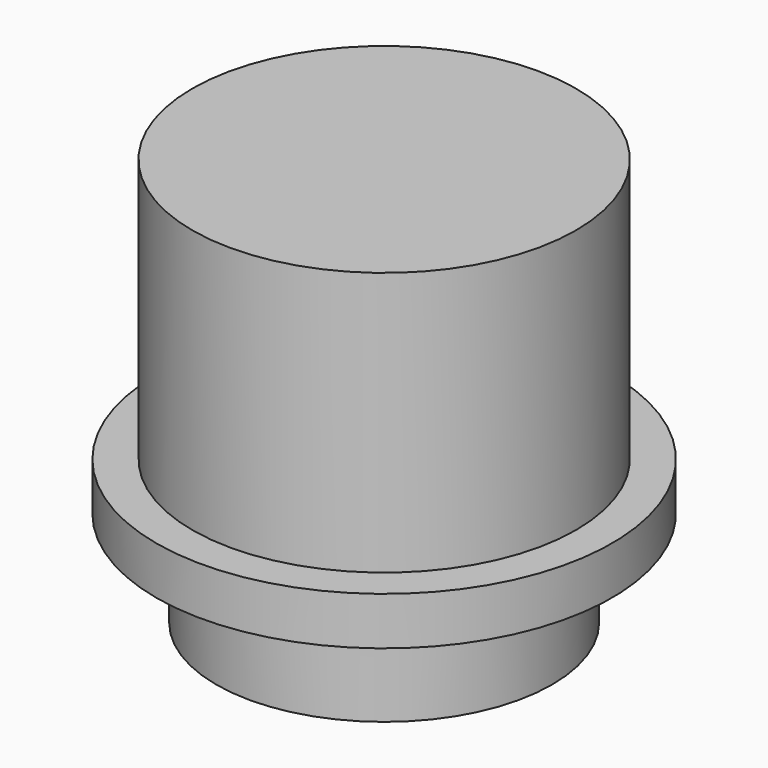
from build123d import *

# Parameters (mm, degrees)
SKETCH010_R             = 9.5
PAD008_DEPTH            = 2
SKETCH011_R             = 7
PAD009_DEPTH            = 4
SKETCH012_R             = 8
PAD010_DEPTH            = 11
BODY003_PLACEMENT_ANGLE = 180


with BuildPart() as part:
    # Sketch010 → Pad008 (new body)
    with BuildSketch(Plane.XY):
        Circle(SKETCH010_R)
    extrude(amount=PAD008_DEPTH)

    # Sketch011 (on Face3 of Pad008) → Pad009 (join)
    with BuildSketch(Plane.XY.offset(2)):
        Circle(SKETCH011_R)
    extrude(amount=PAD009_DEPTH)

    # Sketch012 (on Face2 of Pad009) → Pad010 (join)
    with BuildSketch(Plane(origin=(0, 0, 0), x_dir=(1, 0, 0), z_dir=(0, 0, -1))):
        Circle(SKETCH012_R)
    extrude(amount=PAD010_DEPTH)


with BuildPart() as part_1:
    # Body003 placement: moved
    add(part.part.moved(Location((25, 0, -2))).rotate(Axis((25, 0, -2), (0, 1, 0)), BODY003_PLACEMENT_ANGLE))


solid = part_1.part
